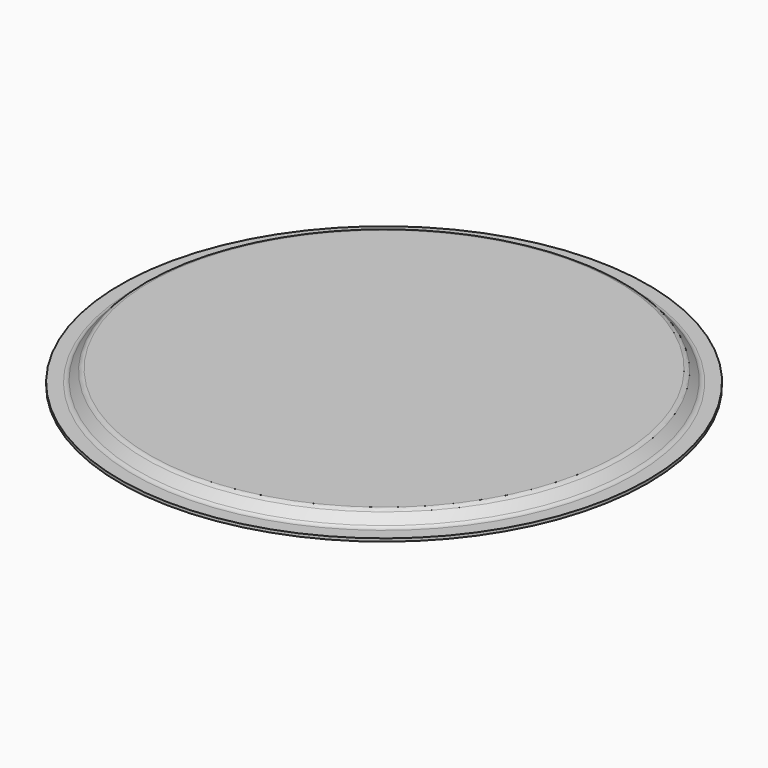
from build123d import *


with BuildPart() as f1:
    # F0 (on Front) → F1 (revolve)
    with BuildSketch(Plane.XZ):
        with BuildLine():
            Line((225.447146, 0), (0, 0))
            Line((0, 0), (0, -2.818089))
            Line((0, -2.818089), (224.203809, -2.818089))
            ThreePointArc((224.203809, -2.818089), (226.478892, -3.297669), (228.366803, -4.654795))
            Line((228.366803, -4.654795), (235.530138, -12.503493))
            ThreePointArc((235.530138, -12.503493), (237.418048, -13.860619), (239.693131, -14.340199))
            Line((239.693131, -14.340199), (254, -14.340199))
            Line((254, -14.340199), (254, -11.522109))
            Line((254, -11.522109), (240.936467, -11.522109))
            ThreePointArc((240.936467, -11.522109), (238.661385, -11.042529), (236.773474, -9.685404))
            Line((236.773474, -9.685404), (229.610139, -1.836706))
            ThreePointArc((229.610139, -1.836706), (227.722228, -0.47958), (225.447146, 0))
        make_face()
    revolve(axis=Axis((0, 0, -1.409045), (0, 0, -1)))


solid = f1.part
